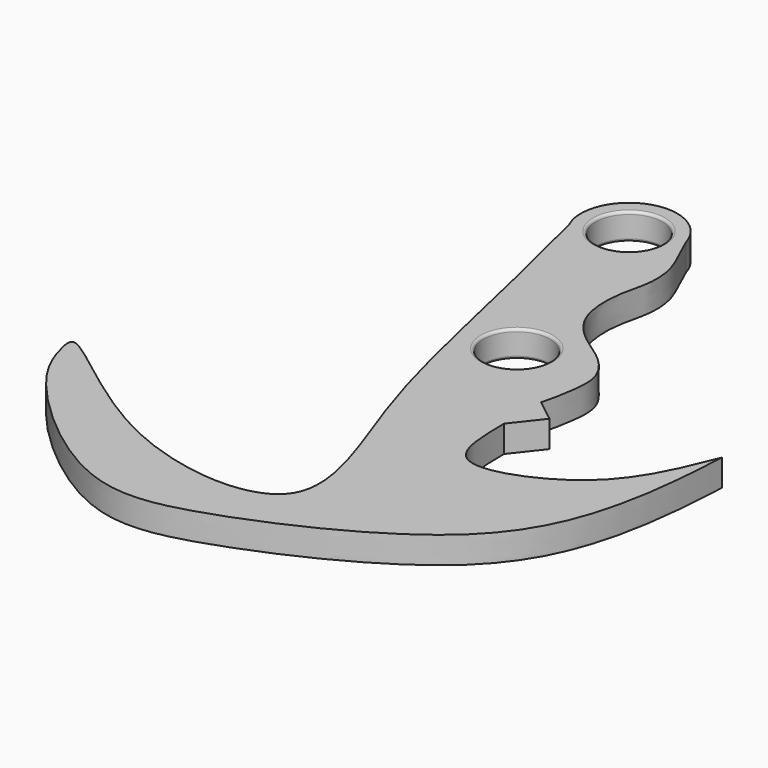
from build123d import *

# Parameters (mm, degrees)
F0_R     = 3.175
F1_DEPTH = 2.54
F2_R     = 0.254


with BuildPart() as f1:
    # F0 (on Top) → F1 (new body)
    with BuildSketch(Plane.XY):
        with BuildLine():
            add(Edge.make_bspline(
                [(-4.0063904598, 46.8019656837), (-3.7251117803, 46.1607524384), (-3.1426094003, 44.8354265762), (-2.0958619853, 42.7618037685), (-1.8818487099, 39.9020950962), (-2.8567624036, 37.0425106573), (-2.7271255179, 32.622574053), (-0.0969382133, 29.8695643245), (2.5931308275, 28.3539344264), (4.6972757445, 25.6639653774), (4.148262623, 22.3128308434), (3.8914083954, 20.778274862), (3.6644707434, 20.030242581)],
                knots=[0, 0, 0, 0, 0.0848937404, 0.1732731751, 0.2693174244, 0.3711361369, 0.490275782, 0.6008034498, 0.7033362365, 0.8065996443, 0.9107584664, 1, 1, 1, 1], degree=3))
            ThreePointArc((-4.0063904598, 46.8019656837), (-9.9858596069, 49.8394207039), (-12.5606052664, 43.6466128538))
            add(Edge.make_bspline(
                [(-12.5606052664, 43.6466128538), (-8.8605079832, 29.2547017526), (-6.799514233, 15.1792116626), (3.2380220862, -6.4164240633), (-17.6496657672, -4.7242128288), (-30.2036557465, 7.859305133), (-29.4489911689, 4.0057465276), (-27.8435674931, -0.5962335672), (-15.336289593, -11.8604595918), (-4.4726658645, -10.0977654488), (13.9622979174, -1.3598056584), (18.8028478549, 9.9328875562), (19.4561926182, 17.1041761143), (19.672235474, 21.480102092)],
                knots=[0, 0, 0, 0, 0.1452223006, 0.2453516241, 0.3449205516, 0.4434498775, 0.4732803385, 0.5304916018, 0.6306710399, 0.7144990288, 0.827012765, 0.9133350811, 1, 1, 1, 1], degree=3))
            add(Edge.make_bspline(
                [(19.672235474, 21.480102092), (17.9648546173, 17.1469344067), (15.3715422237, 11.6449511996), (3.6697026474, 7.1809184492), (3.6833935742, 12.865305437), (3.6644707434, 15.6330224127)],
                knots=[0, 0, 0, 0, 0.3802409607, 0.7140021595, 1, 1, 1, 1], degree=3))
            Line((3.6644707434, 15.6330224127), (5.8006597683, 18.3518081903))
            Line((5.8006597683, 18.3518081903), (3.6644707434, 20.030242581))
        make_face()
        with Locations((-8.4036170557, 45.5499344283)):
            Circle(F0_R, mode=Mode.SUBTRACT)
        with Locations((-3.132494865, 25.634272024)):
            Circle(F0_R, mode=Mode.SUBTRACT)
    extrude(amount=F1_DEPTH)

    # F2
    f2_edges = [f1.edges().sort_by_distance(p)[0] for p in [
        (-11.578617, 45.549934, 2.54),
        (-11.578617, 45.549934, 0),
        (-6.307495, 25.634272, 0),
        (-6.307495, 25.634272, 2.54),
    ]]
    fillet(f2_edges, radius=F2_R)


solid = f1.part
